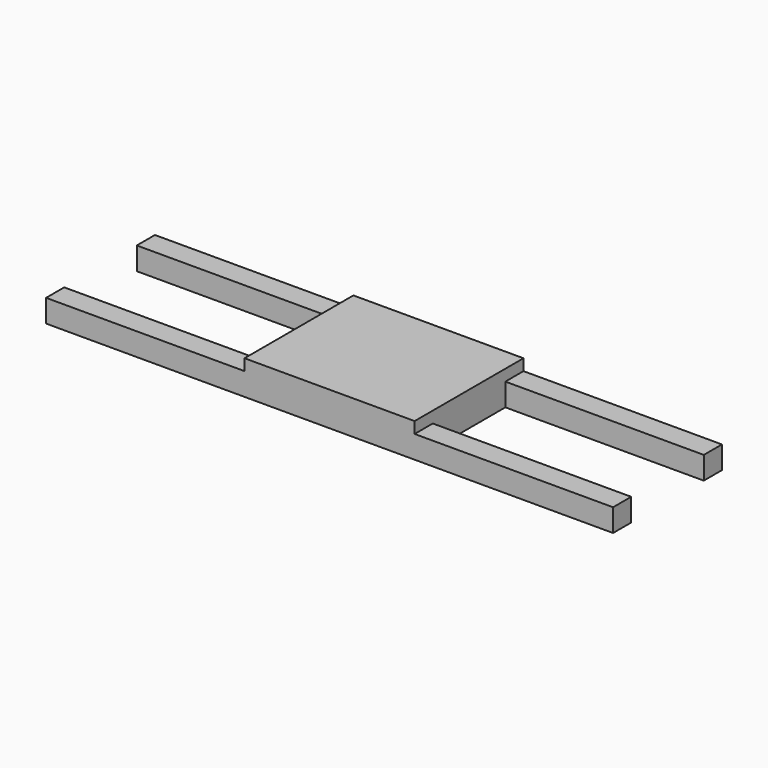
from build123d import *

# Parameters (mm, degrees)
F0_W     = 175
F0_H     = 20
F0_W_2   = 150
F0_H_2   = 80
F1_DEPTH = 20
F2_W     = 150
F2_H     = 80
F2_H_2   = 20
F3_DEPTH = 10


with BuildPart() as f1:
    # F0 (on Top) → F1 (new body)
    with BuildSketch(Plane.XY):
        with Locations((-162.5, 50)):
            Rectangle(F0_W, F0_H)
        with Locations((162.5, 50)):
            Rectangle(F0_W, F0_H)
        with Locations((-162.5, -50)):
            Rectangle(F0_W, F0_H)
        with Locations((162.5, -50)):
            Rectangle(F0_W, F0_H)
        Rectangle(F0_W_2, F0_H_2)
        with Locations((0, -50)):
            Rectangle(F0_W_2, F0_H)
        with Locations((0, 50)):
            Rectangle(F0_W_2, F0_H)
    extrude(amount=F1_DEPTH)

    # F2 (on face) → F3 (join)
    with BuildSketch(Plane.XY.offset(20)):
        Rectangle(F2_W, F2_H)
        with Locations((0, 50)):
            Rectangle(F2_W, F2_H_2)
        with Locations((0, -50)):
            Rectangle(F2_W, F2_H_2)
    extrude(amount=F3_DEPTH)


solid = f1.part
